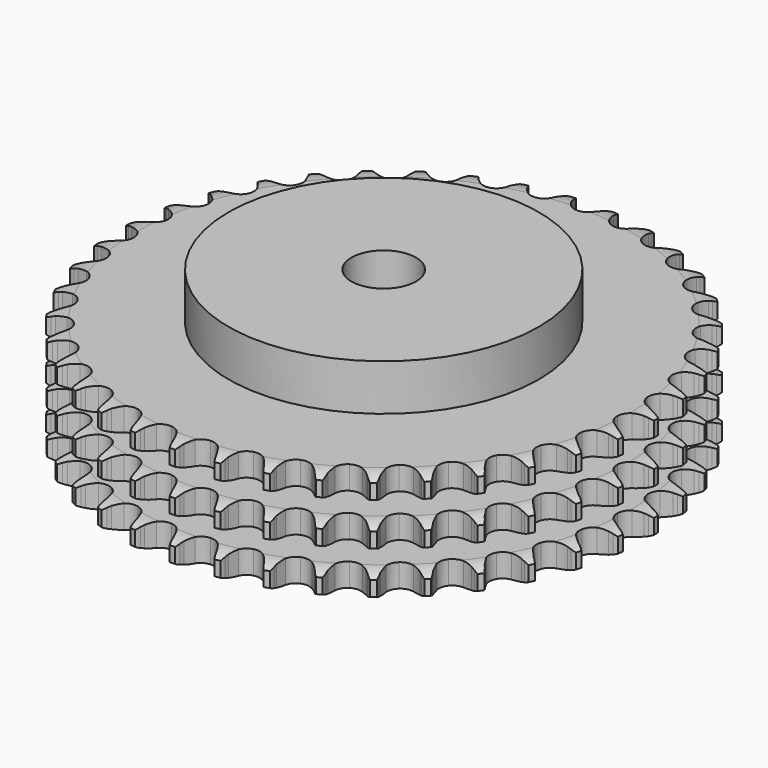
from build123d import *

# Parameters (mm, degrees)
PAD_DEPTH         = 42.1
SKETCH001_R       = 60
PAD001_DEPTH      = 60
SKETCH002_R       = 12.5
POCKET_DEPTH      = 0.001
POCKET_DEPTH_BACK = 60.001


with BuildPart() as part:
    # Sprocket → Pad (new body)
    with BuildSketch(Plane.XY):
        with BuildLine():
            ThreePointArc((-8.339812, 103.307115), (-7.225733, 101.913202), (-6.438066, 100.312033))
            Line((-6.438066, 100.312033), (-5.942659, 98.949016))
            ThreePointArc((-5.942659, 98.949016), (-5.159537, 97.199585), (-4.132583, 95.581205))
            ThreePointArc((-4.132583, 95.581205), (-2.31354, 94.049637), (0, 93.499951))
            ThreePointArc((0, 93.499951), (2.31354, 94.049637), (4.132583, 95.581205))
            ThreePointArc((4.132583, 95.581205), (5.159537, 97.199585), (5.942659, 98.949016))
            Line((5.942659, 98.949016), (6.438066, 100.312033))
            ThreePointArc((6.438066, 100.312033), (7.225733, 101.913202), (8.339812, 103.307115))
            ThreePointArc((8.339812, 103.307115), (9.215866, 101.752542), (9.736487, 100.045757))
            Line((9.736487, 100.045757), (10.006835, 98.620922))
            ThreePointArc((10.006835, 98.620922), (10.499188, 96.768524), (11.253236, 95.006366))
            ThreePointArc((11.253236, 95.006366), (12.803043, 93.202836), (14.998447, 92.289151))
            ThreePointArc((14.998447, 92.289151), (17.370203, 92.460601), (19.411371, 93.68054))
            Line((19.411371, 93.68054), (21.738242, 96.714383))
            ThreePointArc((21.738242, 96.714383), (22.074754, 97.357005), (22.445876, 97.98028))
            ThreePointArc((22.445876, 97.98028), (23.480189, 99.434364), (24.803441, 100.631515))
            ThreePointArc((24.803441, 100.631515), (25.418778, 98.956545), (25.65887, 97.188348))
            Line((25.65887, 97.188348), (25.697158, 95.738598))
            ThreePointArc((25.697158, 95.738598), (25.885989, 93.831209), (26.347603, 91.970913))
            ThreePointArc((26.347603, 91.970913), (27.588033, 89.942132), (29.608442, 88.688111))
            ThreePointArc((29.608442, 88.688111), (31.976986, 88.476884), (34.187414, 89.353599))
            Line((34.187414, 89.353599), (36.970815, 91.974898))
            ThreePointArc((36.970815, 91.974898), (37.406054, 92.555217), (37.87235, 93.110889))
            ThreePointArc((37.87235, 93.110889), (39.12652, 94.380228), (40.624673, 95.349611))
            ThreePointArc((40.624673, 95.349611), (40.963358, 93.597625), (40.916702, 91.813812))
            Line((40.916702, 91.813812), (40.721937, 90.376694))
            ThreePointArc((40.721937, 90.376694), (40.602357, 88.463715), (40.75958, 86.553461))
            ThreePointArc((40.75958, 86.553461), (41.658508, 84.351973), (43.451594, 82.790095))
            ThreePointArc((43.451594, 82.790095), (45.755583, 82.201662), (48.078021, 82.712447))
            Line((48.078021, 82.712447), (51.245864, 84.853311))
            ThreePointArc((51.245864, 84.853311), (51.768556, 85.356299), (52.31795, 85.829975))
            ThreePointArc((52.31795, 85.829975), (53.759496, 86.881694), (55.393747, 87.598203))
            ThreePointArc((55.393747, 87.598203), (55.447008, 85.814575), (55.114813, 84.061347))
            Line((55.114813, 84.061347), (54.69204, 82.674082))
            ThreePointArc((54.69204, 82.674082), (54.267144, 80.805057), (54.115906, 78.89432))
            ThreePointArc((54.115906, 78.89432), (54.650049, 76.577142), (56.169372, 74.747859))
            ThreePointArc((56.169372, 74.747859), (58.349134, 73.79746), (60.723433, 73.929085))
            Line((60.723433, 73.929085), (64.193672, 75.534069))
            ThreePointArc((64.193672, 75.534069), (64.79028, 75.946696), (65.408543, 76.32611))
            ThreePointArc((65.408543, 76.32611), (67.000128, 77.132969), (68.728153, 77.578047))
            ThreePointArc((68.728153, 77.578047), (68.49461, 75.808974), (67.885479, 74.131737))
            Line((67.885479, 74.131737), (67.245648, 72.830254))
            ThreePointArc((67.245648, 72.830254), (66.526442, 71.053591), (66.070658, 69.191857))
            ThreePointArc((66.070658, 69.191857), (66.226183, 66.819004), (67.432393, 64.769693))
            ThreePointArc((67.432393, 64.769693), (69.431473, 63.481943), (71.79614, 63.230999))
            Line((71.79614, 63.230999), (75.478897, 64.258533))
            ThreePointArc((75.478897, 64.258533), (76.13397, 64.570115), (76.805088, 64.845439))
            ThreePointArc((76.805088, 64.845439), (78.505492, 65.386541), (80.282535, 65.548661))
            ThreePointArc((80.282535, 65.548661), (79.768237, 63.839959), (78.897946, 62.282154))
            Line((78.897946, 62.282154), (78.057629, 61.10016))
            ThreePointArc((78.057629, 61.10016), (77.062739, 59.461873), (76.314215, 57.697362))
            ThreePointArc((76.314215, 57.697362), (76.087093, 55.330289), (76.948951, 53.114026))
            ThreePointArc((76.948951, 53.114026), (78.715574, 51.522277), (81.009364, 50.895264))
            Line((81.009364, 50.895264), (84.809259, 51.318735))
            ThreePointArc((84.809259, 51.318735), (85.50583, 51.521201), (86.212423, 51.685305))
            ThreePointArc((86.212423, 51.685305), (87.977606, 51.946636), (89.757642, 51.821599))
            ThreePointArc((89.757642, 51.821599), (88.975909, 50.217523), (87.866999, 48.819496))
            Line((87.866999, 48.819496), (86.847958, 47.787605))
            ThreePointArc((86.847958, 47.787605), (85.603152, 46.330125), (84.581273, 44.708535))
            ThreePointArc((84.581273, 44.708535), (83.977388, 42.408548), (84.472571, 40.082733))
            ThreePointArc((84.472571, 40.082733), (85.960982, 38.228211), (88.124489, 37.241368))
            Line((88.124489, 37.241368), (91.943106, 37.049809))
            ThreePointArc((91.943106, 37.049809), (92.663134, 37.137915), (93.386901, 37.186549))
            ThreePointArc((93.386901, 37.186549), (95.171145, 37.16134), (96.908073, 36.752384))
            ThreePointArc((96.908073, 36.752384), (95.879152, 35.29448), (94.560342, 34.092438))
            Line((94.560342, 34.092438), (93.388971, 33.237376))
            ThreePointArc((93.388971, 33.237376), (91.926489, 31.998451), (90.657722, 30.561781))
            ThreePointArc((90.657722, 30.561781), (89.692712, 28.388448), (89.808396, 26.013319))
            ThreePointArc((89.808396, 26.013319), (90.980047, 23.944055), (92.957235, 22.62294))
            Line((92.957235, 22.62294), (96.695674, 21.821313))
            ThreePointArc((96.695674, 21.821313), (97.420511, 21.792777), (98.142707, 21.724681))
            ThreePointArc((98.142707, 21.724681), (99.899802, 21.413585), (101.548636, 20.731302))
            ThreePointArc((101.548636, 20.731302), (100.299175, 19.457328), (98.804622, 18.482404))
            Line((98.804622, 18.482404), (97.511258, 17.826316))
            ThreePointArc((97.511258, 17.826316), (95.868977, 16.838033), (94.386182, 15.623493))
            ThreePointArc((94.386182, 15.623493), (93.085043, 13.633102), (92.818231, 11.270174))
            ThreePointArc((92.818231, 11.270174), (93.642775, 9.03976), (95.382438, 7.418589))
            Line((95.382438, 7.418589), (98.943875, 6.027656))
            ThreePointArc((98.943875, 6.027656), (99.654748, 5.883217), (100.356668, 5.700154))
            ThreePointArc((100.356668, 5.700154), (102.041106, 5.11123), (103.559143, 4.173291))
            ThreePointArc((103.559143, 4.173291), (102.121502, 3.116242), (100.489914, 2.393686))
            Line((100.489914, 2.393686), (99.108055, 1.953564))
            ThreePointArc((99.108055, 1.953564), (97.32851, 1.24152), (95.670091, 0.280564))
            ThreePointArc((95.670091, 0.280564), (94.066519, -1.475334), (93.424122, -3.764863))
            ThreePointArc((93.424122, -3.764863), (93.880205, -6.09866), (95.337286, -7.977899))
            Line((95.337286, -7.977899), (98.629482, -9.922115))
            ThreePointArc((98.629482, -9.922115), (99.30798, -10.178715), (99.971445, -10.472003))
            ThreePointArc((99.971445, -10.472003), (101.5396, -11.323504), (102.887522, -12.492807))
            ThreePointArc((102.887522, -12.492807), (101.298935, -13.305553), (99.572571, -13.757027))
            Line((99.572571, -13.757027), (98.138006, -13.969784))
            ThreePointArc((98.138006, -13.969784), (96.267285, -14.387148), (94.476194, -15.069631))
            ThreePointArc((94.476194, -15.069631), (92.611722, -16.545559), (91.610378, -18.702392))
            ThreePointArc((91.610378, -18.702392), (91.686187, -21.079128), (92.822948, -23.167763))
            Line((92.822948, -23.167763), (95.760637, -25.614907))
            ThreePointArc((95.760637, -25.614907), (96.389187, -25.977023), (96.997013, -26.372941))
            ThreePointArc((96.997013, -26.372941), (98.408271, -27.464965), (99.551168, -28.835348))
            ThreePointArc((99.551168, -28.835348), (97.85278, -29.382742), (96.07635, -29.551441))
            Line((96.07635, -29.551441), (94.626233, -29.531322))
            ThreePointArc((94.626233, -29.531322), (92.712788, -29.643197), (90.835413, -30.02953))
            ThreePointArc((90.835413, -30.02953), (88.75833, -31.187264), (87.423973, -33.155539))
            ThreePointArc((87.423973, -33.155539), (87.117545, -35.513658), (87.904545, -37.757595))
            Line((87.904545, -37.757595), (90.411642, -40.644288))
            ThreePointArc((90.411642, -40.644288), (90.973965, -41.10254), (91.51041, -41.590833))
            ThreePointArc((91.51041, -41.590833), (92.728219, -42.895097), (93.636492, -44.431068))
            ThreePointArc((93.636492, -44.431068), (91.872289, -44.698933), (90.091802, -44.580488))
            Line((90.091802, -44.580488), (88.663691, -44.328014))
            ThreePointArc((88.663691, -44.328014), (86.757079, -44.131503), (84.842043, -44.21168))
            ThreePointArc((84.842043, -44.21168), (82.606144, -45.021234), (80.973333, -46.749975))
            ThreePointArc((80.973333, -46.749975), (80.292605, -49.028402), (80.70946, -51.369524))
            Line((80.70946, -51.369524), (82.721032, -54.621002))
            ThreePointArc((82.721032, -54.621002), (83.202565, -55.163524), (83.653736, -55.731545))
            ThreePointArc((83.653736, -55.731545), (84.646556, -57.21427), (85.296679, -58.876047))
            ThreePointArc((85.296679, -58.876047), (83.512354, -58.857445), (81.773923, -58.454924))
            Line((81.773923, -58.454924), (80.404806, -57.976635))
            ThreePointArc((80.404806, -57.976635), (78.554406, -57.476825), (76.651309, -57.248772))
            ThreePointArc((76.651309, -57.248772), (74.314503, -57.689179), (72.425526, -59.133611))
            ThreePointArc((72.425526, -59.133611), (71.388128, -61.273337), (71.424042, -63.65101))
            Line((71.424042, -63.65101), (72.887992, -67.183061))
            ThreePointArc((72.887992, -67.183061), (73.276262, -67.7958), (73.630473, -68.428839))
            ThreePointArc((73.630473, -68.428839), (74.372591, -70.051622), (74.747728, -71.796167))
            ThreePointArc((74.747728, -71.796167), (72.989493, -71.49158), (71.338143, -70.815407))
            Line((71.338143, -70.815407), (70.063479, -70.12369))
            ThreePointArc((70.063479, -70.12369), (68.317216, -69.333528), (66.475345, -68.80315))
            ThreePointArc((66.475345, -68.80315), (64.098154, -68.863003), (62.001936, -69.985718))
            ThreePointArc((62.001936, -69.985718), (60.634736, -71.931324), (60.28878, -74.283969))
            Line((60.28878, -74.283969), (61.167191, -78.005114))
            ThreePointArc((61.167191, -78.005114), (61.452142, -78.672202), (61.70022, -79.353862))
            ThreePointArc((61.70022, -79.353862), (62.172415, -81.074675), (62.262849, -82.856804))
            ThreePointArc((62.262849, -82.856804), (60.576242, -82.274121), (59.054743, -81.341809))
            Line((59.054743, -81.341809), (57.907544, -80.454579))
            ThreePointArc((57.907544, -80.454579), (56.310646, -79.39453), (54.577706, -78.575562))
            ThreePointArc((54.577706, -78.575562), (52.221697, -78.253313), (49.972528, -79.025231))
            ThreePointArc((49.972528, -79.025231), (48.310936, -80.726328), (47.592069, -82.993011))
            Line((47.592069, -82.993011), (47.862191, -86.806876))
            ThreePointArc((47.862191, -86.806876), (48.036445, -87.511034), (48.171964, -88.223662))
            ThreePointArc((48.171964, -88.223662), (48.362006, -89.997936), (48.165396, -91.771494))
            ThreePointArc((48.165396, -91.771494), (46.594098, -90.925805), (45.241856, -89.761501))
            Line((45.241856, -89.761501), (44.251835, -88.701737))
            ThreePointArc((44.251835, -88.701737), (42.84566, -87.399254), (41.266532, -86.312909))
            ThreePointArc((41.266532, -86.312909), (38.992726, -85.616902), (36.648859, -86.018033))
            ThreePointArc((36.648859, -86.018033), (34.735908, -87.430563), (33.662749, -89.552578))
            Line((33.662749, -89.552578), (33.317586, -93.360385))
            ThreePointArc((33.317586, -93.360385), (33.376628, -94.083377), (33.396079, -94.808515))
            ThreePointArc((33.396079, -94.808515), (33.299047, -96.590297), (32.820483, -98.30935))
            ThreePointArc((32.820483, -98.30935), (31.405192, -97.222559), (30.257228, -95.856417))
            Line((30.257228, -95.856417), (29.450026, -94.651566))
            ThreePointArc((29.450026, -94.651566), (28.270993, -93.140384), (26.886577, -91.814797))
            ThreePointArc((26.886577, -91.814797), (24.753864, -90.763059), (22.376003, -90.783012))
            ThreePointArc((22.376003, -90.783012), (20.261239, -91.870391), (18.861582, -93.792781))
            Line((18.861582, -93.792781), (17.910073, -97.495909))
            ThreePointArc((17.910073, -97.495909), (17.852375, -98.21901), (17.755253, -98.937877))
            ThreePointArc((17.755253, -98.937877), (17.373659, -100.681021), (16.625538, -102.301045))
            ThreePointArc((16.625538, -102.301045), (15.402908, -101.001299), (14.488954, -99.468703))
            Line((14.488954, -99.468703), (13.885477, -98.14997))
            ThreePointArc((13.885477, -98.14997), (12.964123, -96.469227), (11.810274, -94.93873))
            ThreePointArc((11.810274, -94.93873), (9.873889, -93.5585), (7.52362, -93.196759))
            ThreePointArc((7.52362, -93.196759), (5.261814, -93.930825), (3.571909, -95.603799))
            Line((3.571909, -95.603799), (2.038699, -99.106341))
            ThreePointArc((2.038699, -99.106341), (1.865754, -99.810822), (1.654576, -100.504801))
            ThreePointArc((1.654576, -100.504801), (0.998304, -102.164159), (0, -103.643198))
            ThreePointArc((0, -103.643198), (-0.998304, -102.164159), (-1.654576, -100.504801))
            Line((-1.654576, -100.504801), (-2.038699, -99.106341))
            ThreePointArc((-2.038699, -99.106341), (-2.678511, -97.299567), (-3.571909, -95.603799))
            ThreePointArc((-3.571909, -95.603799), (-5.261814, -93.930825), (-7.52362, -93.196759))
            ThreePointArc((-7.52362, -93.196759), (-9.873889, -93.5585), (-11.810274, -94.93873))
            Line((-11.810274, -94.93873), (-13.885477, -98.14997))
            ThreePointArc((-13.885477, -98.14997), (-14.169189, -98.817586), (-14.488954, -99.468703))
            ThreePointArc((-14.488954, -99.468703), (-15.402908, -101.001299), (-16.625538, -102.301045))
            ThreePointArc((-16.625538, -102.301045), (-17.373659, -100.681021), (-17.755253, -98.937877))
            Line((-17.755253, -98.937877), (-17.910073, -97.495909))
            ThreePointArc((-17.910073, -97.495909), (-18.251773, -95.6099), (-18.861582, -93.792781))
            ThreePointArc((-18.861582, -93.792781), (-20.261239, -91.870391), (-22.376003, -90.783012))
            ThreePointArc((-22.376003, -90.783012), (-24.753864, -90.763059), (-26.886577, -91.814797))
            Line((-26.886577, -91.814797), (-29.450026, -94.651566))
            ThreePointArc((-29.450026, -94.651566), (-29.837157, -95.265026), (-30.257228, -95.856417))
            ThreePointArc((-30.257228, -95.856417), (-31.405192, -97.222559), (-32.820483, -98.30935))
            ThreePointArc((-32.820483, -98.30935), (-33.299047, -96.590297), (-33.396079, -94.808515))
            Line((-33.396079, -94.808515), (-33.317586, -93.360385))
            ThreePointArc((-33.317586, -93.360385), (-33.352324, -91.443987), (-33.662749, -89.552578))
            ThreePointArc((-33.662749, -89.552578), (-34.735908, -87.430563), (-36.648859, -86.018033))
            ThreePointArc((-36.648859, -86.018033), (-38.992726, -85.616902), (-41.266532, -86.312909))
            Line((-41.266532, -86.312909), (-44.251835, -88.701737))
            ThreePointArc((-44.251835, -88.701737), (-44.732358, -89.245152), (-45.241856, -89.761501))
            ThreePointArc((-45.241856, -89.761501), (-46.594098, -90.925805), (-48.165396, -91.771494))
            ThreePointArc((-48.165396, -91.771494), (-48.362006, -89.997936), (-48.171964, -88.223662))
            Line((-48.171964, -88.223662), (-47.862191, -86.806876))
            ThreePointArc((-47.862191, -86.806876), (-47.589067, -84.909722), (-47.592069, -82.993011))
            ThreePointArc((-47.592069, -82.993011), (-48.310936, -80.726328), (-49.972528, -79.025231))
            ThreePointArc((-49.972528, -79.025231), (-52.221697, -78.253313), (-54.577706, -78.575562))
            Line((-54.577706, -78.575562), (-57.907544, -80.454579))
            ThreePointArc((-57.907544, -80.454579), (-58.469015, -80.913876), (-59.054743, -81.341809))
            ThreePointArc((-59.054743, -81.341809), (-60.576242, -82.274121), (-62.262849, -82.856804))
            ThreePointArc((-62.262849, -82.856804), (-62.172415, -81.074675), (-61.70022, -79.353862))
            Line((-61.70022, -79.353862), (-61.167191, -78.005114))
            ThreePointArc((-61.167191, -78.005114), (-60.593279, -76.17634), (-60.28878, -74.283969))
            ThreePointArc((-60.28878, -74.283969), (-60.634736, -71.931324), (-62.001936, -69.985718))
            ThreePointArc((-62.001936, -69.985718), (-64.098154, -68.863003), (-66.475345, -68.80315))
            Line((-66.475345, -68.80315), (-70.063479, -70.12369))
            ThreePointArc((-70.063479, -70.12369), (-70.691356, -70.486973), (-71.338143, -70.815407))
            ThreePointArc((-71.338143, -70.815407), (-72.989493, -71.49158), (-74.747728, -71.796167))
            ThreePointArc((-74.747728, -71.796167), (-74.372591, -70.051622), (-73.630473, -68.428839))
            Line((-73.630473, -68.428839), (-72.887992, -67.183061))
            ThreePointArc((-72.887992, -67.183061), (-72.028156, -65.470031), (-71.424042, -63.65101))
            ThreePointArc((-71.424042, -63.65101), (-71.388128, -61.273337), (-72.425526, -59.133611))
            ThreePointArc((-72.425526, -59.133611), (-74.314503, -57.689179), (-76.651309, -57.248772))
            Line((-76.651309, -57.248772), (-80.404806, -57.976635))
            ThreePointArc((-80.404806, -57.976635), (-81.082827, -58.234494), (-81.773923, -58.454924))
            ThreePointArc((-81.773923, -58.454924), (-83.512354, -58.857445), (-85.296679, -58.876047))
            ThreePointArc((-85.296679, -58.876047), (-84.646556, -57.21427), (-83.653736, -55.731545))
            Line((-83.653736, -55.731545), (-82.721032, -54.621002))
            ThreePointArc((-82.721032, -54.621002), (-81.597542, -53.068083), (-80.70946, -51.369524))
            ThreePointArc((-80.70946, -51.369524), (-80.292605, -49.028402), (-80.973333, -46.749975))
            ThreePointArc((-80.973333, -46.749975), (-82.606144, -45.021234), (-84.842043, -44.21168))
            Line((-84.842043, -44.21168), (-88.663691, -44.328014))
            ThreePointArc((-88.663691, -44.328014), (-89.374295, -44.473773), (-90.091802, -44.580488))
            ThreePointArc((-90.091802, -44.580488), (-91.872289, -44.698933), (-93.636492, -44.431068))
            ThreePointArc((-93.636492, -44.431068), (-92.728219, -42.895097), (-91.51041, -41.590833))
            Line((-91.51041, -41.590833), (-90.411642, -40.644288))
            ThreePointArc((-90.411642, -40.644288), (-89.053594, -39.291699), (-87.904545, -37.757595))
            ThreePointArc((-87.904545, -37.757595), (-87.117545, -35.513658), (-87.423973, -33.155539))
            ThreePointArc((-87.423973, -33.155539), (-88.75833, -31.187264), (-90.835413, -30.02953))
            Line((-90.835413, -30.02953), (-94.626233, -29.531322))
            ThreePointArc((-94.626233, -29.531322), (-95.351016, -29.561204), (-96.07635, -29.551441))
            ThreePointArc((-96.07635, -29.551441), (-97.85278, -29.382742), (-99.551168, -28.835348))
            ThreePointArc((-99.551168, -28.835348), (-98.408271, -27.464965), (-96.997013, -26.372941))
            Line((-96.997013, -26.372941), (-95.760637, -25.614907))
            ThreePointArc((-95.760637, -25.614907), (-94.203205, -24.497681), (-92.822948, -23.167763))
            ThreePointArc((-92.822948, -23.167763), (-91.686187, -21.079128), (-91.610378, -18.702392))
            ThreePointArc((-91.610378, -18.702392), (-92.611722, -16.545559), (-94.476194, -15.069631))
            Line((-94.476194, -15.069631), (-98.138006, -13.969784))
            ThreePointArc((-98.138006, -13.969784), (-98.858196, -13.883016), (-99.572571, -13.757027))
            ThreePointArc((-99.572571, -13.757027), (-101.298935, -13.305553), (-102.887522, -12.492807))
            ThreePointArc((-102.887522, -12.492807), (-101.5396, -11.323504), (-99.971445, -10.472003))
            Line((-99.971445, -10.472003), (-98.629482, -9.922115))
            ThreePointArc((-98.629482, -9.922115), (-96.913003, -9.069185), (-95.337286, -7.977899))
            ThreePointArc((-95.337286, -7.977899), (-93.880205, -6.09866), (-93.424122, -3.764863))
            ThreePointArc((-93.424122, -3.764863), (-94.066519, -1.475334), (-95.670091, 0.280564))
            Line((-95.670091, 0.280564), (-99.108055, 1.953564))
            ThreePointArc((-99.108055, 1.953564), (-99.805001, 2.154736), (-100.489914, 2.393686))
            ThreePointArc((-100.489914, 2.393686), (-102.121502, 3.116242), (-103.559143, 4.173291))
            ThreePointArc((-103.559143, 4.173291), (-102.041106, 5.11123), (-100.356668, 5.700154))
            Line((-100.356668, 5.700154), (-98.943875, 6.027656))
            ThreePointArc((-98.943875, 6.027656), (-97.112804, 6.594197), (-95.382438, 7.418589))
            ThreePointArc((-95.382438, 7.418589), (-93.642775, 9.03976), (-92.818231, 11.270174))
            ThreePointArc((-92.818231, 11.270174), (-93.085043, 13.633102), (-94.386182, 15.623493))
            Line((-94.386182, 15.623493), (-97.511258, 17.826316))
            ThreePointArc((-97.511258, 17.826316), (-98.166909, 18.136681), (-98.804622, 18.482404))
            ThreePointArc((-98.804622, 18.482404), (-100.299175, 19.457328), (-101.548636, 20.731302))
            ThreePointArc((-101.548636, 20.731302), (-99.899802, 21.413585), (-98.142707, 21.724681))
            Line((-98.142707, 21.724681), (-96.695674, 21.821313))
            ThreePointArc((-96.695674, 21.821313), (-94.797435, 22.086793), (-92.957235, 22.62294))
            ThreePointArc((-92.957235, 22.62294), (-90.980047, 23.944055), (-89.808396, 26.013319))
            ThreePointArc((-89.808396, 26.013319), (-89.692712, 28.388448), (-90.657722, 30.561781))
            Line((-90.657722, 30.561781), (-93.388971, 33.237376))
            ThreePointArc((-93.388971, 33.237376), (-93.986345, 33.648895), (-94.560342, 34.092438))
            ThreePointArc((-94.560342, 34.092438), (-95.879152, 35.29448), (-96.908073, 36.752384))
            ThreePointArc((-96.908073, 36.752384), (-95.171145, 37.16134), (-93.386901, 37.186549))
            Line((-93.386901, 37.186549), (-91.943106, 37.049809))
            ThreePointArc((-91.943106, 37.049809), (-90.026863, 37.007353), (-88.124489, 37.241368))
            ThreePointArc((-88.124489, 37.241368), (-85.960982, 38.228211), (-84.472571, 40.082733))
            ThreePointArc((-84.472571, 40.082733), (-83.977388, 42.408548), (-84.581273, 44.708535))
            Line((-84.581273, 44.708535), (-86.847958, 47.787605))
            ThreePointArc((-86.847958, 47.787605), (-87.371584, 48.28962), (-87.866999, 48.819496))
            ThreePointArc((-87.866999, 48.819496), (-88.975909, 50.217523), (-89.757642, 51.821599))
            ThreePointArc((-89.757642, 51.821599), (-87.977606, 51.946636), (-86.212423, 51.685305))
            Line((-86.212423, 51.685305), (-84.809259, 51.318735))
            ThreePointArc((-84.809259, 51.318735), (-82.924641, 50.969442), (-81.009364, 50.895264))
            ThreePointArc((-81.009364, 50.895264), (-78.715574, 51.522277), (-76.948951, 53.114026))
            ThreePointArc((-76.948951, 53.114026), (-76.087093, 55.330289), (-76.314215, 57.697362))
            Line((-76.314215, 57.697362), (-78.057629, 61.10016))
            ThreePointArc((-78.057629, 61.10016), (-78.493945, 61.67967), (-78.897946, 62.282154))
            ThreePointArc((-78.897946, 62.282154), (-79.768237, 63.839959), (-80.282535, 65.548661))
            ThreePointArc((-80.282535, 65.548661), (-78.505492, 65.386541), (-76.805088, 64.845439))
            Line((-76.805088, 64.845439), (-75.478897, 64.258533))
            ThreePointArc((-75.478897, 64.258533), (-73.674716, 63.611449), (-71.79614, 63.230999))
            ThreePointArc((-71.79614, 63.230999), (-69.431473, 63.481943), (-67.432393, 64.769693))
            ThreePointArc((-67.432393, 64.769693), (-66.226183, 66.819004), (-66.070658, 69.191857))
            Line((-66.070658, 69.191857), (-67.245648, 72.830254))
            ThreePointArc((-67.245648, 72.830254), (-67.583354, 73.472249), (-67.885479, 74.131737))
            ThreePointArc((-67.885479, 74.131737), (-68.49461, 75.808974), (-68.728153, 77.578047))
            ThreePointArc((-68.728153, 77.578047), (-67.000128, 77.132969), (-65.408543, 76.32611))
            Line((-65.408543, 76.32611), (-64.193672, 75.534069))
            ThreePointArc((-64.193672, 75.534069), (-62.516653, 74.605953), (-60.723433, 73.929085))
            ThreePointArc((-60.723433, 73.929085), (-58.349134, 73.79746), (-56.169372, 74.747859))
            ThreePointArc((-56.169372, 74.747859), (-54.650049, 76.577142), (-54.115906, 78.89432))
            Line((-54.115906, 78.89432), (-54.69204, 82.674082))
            ThreePointArc((-54.69204, 82.674082), (-54.92239, 83.361935), (-55.114813, 84.061347))
            ThreePointArc((-55.114813, 84.061347), (-55.447008, 85.814575), (-55.393747, 87.598203))
            ThreePointArc((-55.393747, 87.598203), (-53.759496, 86.881694), (-52.31795, 85.829975))
            Line((-52.31795, 85.829975), (-51.245864, 84.853311))
            ThreePointArc((-51.245864, 84.853311), (-49.739443, 83.668202), (-48.078021, 82.712447))
            ThreePointArc((-48.078021, 82.712447), (-45.755583, 82.201662), (-43.451594, 82.790095))
            ThreePointArc((-43.451594, 82.790095), (-41.658508, 84.351973), (-40.75958, 86.553461))
            Line((-40.75958, 86.553461), (-40.721937, 90.376694))
            ThreePointArc((-40.721937, 90.376694), (-40.838965, 91.092591), (-40.916702, 91.813812))
            ThreePointArc((-40.916702, 91.813812), (-40.963358, 93.597625), (-40.624673, 95.349611))
            ThreePointArc((-40.624673, 95.349611), (-39.12652, 94.380228), (-37.87235, 93.110889))
            Line((-37.87235, 93.110889), (-36.970815, 91.974898))
            ThreePointArc((-36.970815, 91.974898), (-35.674006, 90.563489), (-34.187414, 89.353599))
            ThreePointArc((-34.187414, 89.353599), (-31.976986, 88.476884), (-29.608442, 88.688111))
            ThreePointArc((-29.608442, 88.688111), (-27.588033, 89.942132), (-26.347603, 91.970913))
            Line((-26.347603, 91.970913), (-25.697158, 95.738598))
            ThreePointArc((-25.697158, 95.738598), (-25.697832, 96.463996), (-25.65887, 97.188348))
            ThreePointArc((-25.65887, 97.188348), (-25.418778, 98.956545), (-24.803441, 100.631515))
            ThreePointArc((-24.803441, 100.631515), (-23.480189, 99.434364), (-22.445876, 97.98028))
            Line((-22.445876, 97.98028), (-21.738242, 96.714383))
            ThreePointArc((-21.738242, 96.714383), (-20.684632, 95.113228), (-19.411371, 93.68054))
            ThreePointArc((-19.411371, 93.68054), (-17.370203, 92.460601), (-14.998447, 92.289151))
            ThreePointArc((-14.998447, 92.289151), (-12.803043, 93.202836), (-11.253236, 95.006366))
            Line((-11.253236, 95.006366), (-10.006835, 98.620922))
            ThreePointArc((-10.006835, 98.620922), (-9.891138, 99.337035), (-9.736487, 100.045757))
            ThreePointArc((-9.736487, 100.045757), (-9.215866, 101.752542), (-8.339812, 103.307115))
        make_face()
    extrude(amount=PAD_DEPTH)

    # Sketch → Groove (revolve, cut)
    with BuildSketch(Plane.XZ):
        with BuildLine():
            ThreePointArc((95.125762, 0), (98.70347, 0.405129), (102.1, 1.6))
            Line((102.1, 1.6), (102.1, 7.4))
            ThreePointArc((102.1, 7.4), (98.70347, 8.594871), (95.125762, 9))
            Line((60, 9), (95.125762, 9))
            Line((60, 9), (60, 16.55))
            Line((60, 16.55), (95.125762, 16.55))
            ThreePointArc((95.125762, 16.55), (98.70347, 16.955129), (102.1, 18.15))
            Line((102.1, 23.95), (102.1, 18.15))
            ThreePointArc((102.1, 23.95), (98.70347, 25.144871), (95.125762, 25.55))
            Line((60, 25.55), (95.125762, 25.55))
            Line((60, 33.1), (60, 25.55))
            Line((95.125762, 33.1), (60, 33.1))
            ThreePointArc((95.125762, 33.1), (98.70347, 33.505129), (102.1, 34.7))
            Line((102.1, 34.7), (102.1, 40.5))
            ThreePointArc((102.1, 40.5), (98.70347, 41.694871), (95.125762, 42.1))
            Line((95.125762, 42.1), (112.1, 42.1))
            Line((112.1, 42.1), (112.1, 0))
            Line((95.125762, 0), (112.1, 0))
        make_face()
    revolve(axis=Axis((0, 0, 0), (0, 0, 1)), mode=Mode.SUBTRACT)

    # Sketch001 → Pad001 (join)
    with BuildSketch(Plane.XY):
        Circle(SKETCH001_R)
    extrude(amount=PAD001_DEPTH)

    # Sketch002 → Pocket (cut, two sides)
    with BuildSketch(Plane.XY) as pocket_sk:
        Circle(SKETCH002_R)
    extrude(amount=-POCKET_DEPTH, mode=Mode.SUBTRACT)
    extrude(pocket_sk.sketch, amount=POCKET_DEPTH_BACK, mode=Mode.SUBTRACT)


solid = part.part
